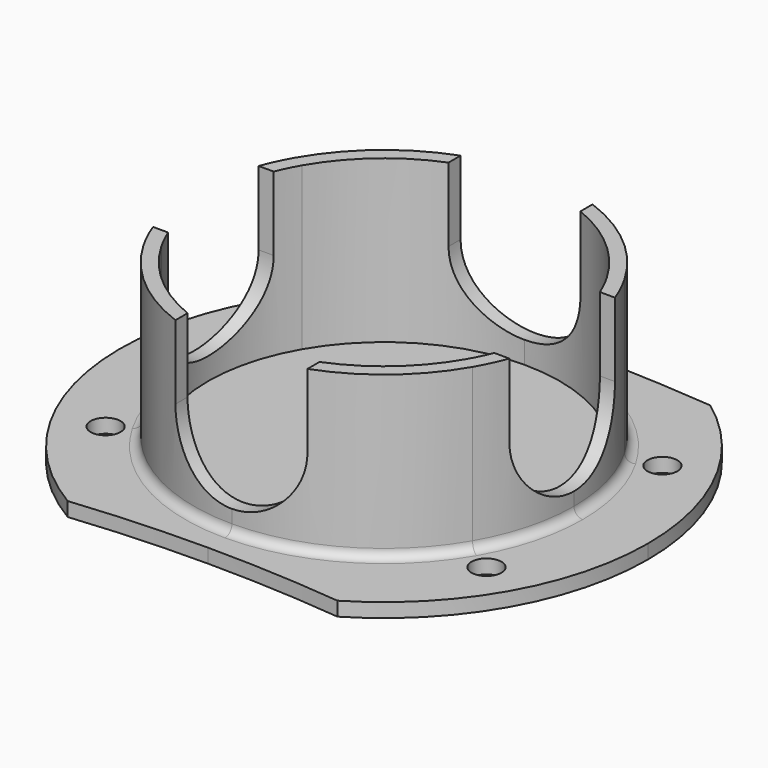
from build123d import *

# Parameters (mm, degrees)
F1_DEPTH  = 2.032
F2_DEPTH  = 25.4
F3_D      = 4.318
F3_DEPTH  = 5.08
F3_TIP    = 1.2972580765
F6_DEPTH  = 63.5
F10_DEPTH = 63.5
F11_R     = 1.27


with BuildPart() as f1:
    # F0 (on Top) → F1 (new body)
    with BuildSketch(Plane.XY):
        with BuildLine():
            ThreePointArc((-19.4727464049, 189.5021428571), (-9.7491483145, 190.2503721603), (0, 190.5))
            ThreePointArc((0, 190.5), (-15.875, 194.7536934298), (-27.4963065702, 206.375))
            ThreePointArc((-27.4963065702, 206.375), (-31.75, 222.25), (-27.4963065702, 238.125))
            ThreePointArc((-27.4963065702, 238.125), (-15.875, 249.7463065702), (0, 254))
            ThreePointArc((0, 254), (-11.2573468074, 253.750413089), (-22.4925700998, 253.0021428571))
            ThreePointArc((-22.4925700998, 253.0021428571), (-38.0569894676, 220.440151204), (-19.4727464049, 189.5021428571))
        make_face()
        with BuildLine():
            Line((0, 249.682), (0, 254))
            ThreePointArc((0, 254), (-15.875, 249.7463065702), (-27.4963065702, 238.125))
            Line((-27.4963065702, 238.125), (-23.7568088766, 235.966))
            ThreePointArc((-23.7568088766, 235.966), (-13.716, 246.0068088766), (0, 249.682))
        make_face()
        with BuildLine():
            ThreePointArc((-27.4963065702, 238.125), (-31.75, 222.25), (-27.4963065702, 206.375))
            Line((-27.4963065702, 206.375), (-23.7568088766, 208.534))
            ThreePointArc((-23.7568088766, 208.534), (-27.432, 222.25), (-23.7568088766, 235.966))
            Line((-23.7568088766, 235.966), (-27.4963065702, 238.125))
        make_face()
        with BuildLine():
            ThreePointArc((-23.7568088766, 235.966), (-27.432, 222.25), (-23.7568088766, 208.534))
            Line((-23.7568088766, 208.534), (-21.9970452561, 209.55))
            ThreePointArc((-21.9970452561, 209.55), (-25.4, 222.25), (-21.9970452561, 234.95))
            Line((-21.9970452561, 234.95), (-23.7568088766, 235.966))
        make_face()
        with BuildLine():
            ThreePointArc((-27.4963065702, 206.375), (-15.875, 194.7536934298), (0, 190.5))
            Line((0, 190.5), (0, 194.818))
            ThreePointArc((0, 194.818), (-13.716, 198.4931911234), (-23.7568088766, 208.534))
            Line((-23.7568088766, 208.534), (-27.4963065702, 206.375))
        make_face()
        with BuildLine():
            ThreePointArc((-23.7568088766, 208.534), (-13.716, 198.4931911234), (0, 194.818))
            Line((0, 194.818), (0, 196.85))
            ThreePointArc((0, 196.85), (-12.7, 200.2529547439), (-21.9970452561, 209.55))
            Line((-21.9970452561, 209.55), (-23.7568088766, 208.534))
        make_face()
        with BuildLine():
            ThreePointArc((-21.9970452561, 209.55), (-12.7, 200.2529547439), (0, 196.85))
            Line((0, 196.85), (0, 222.25))
            Line((0, 222.25), (-21.9970452561, 209.55))
        make_face()
        with BuildLine():
            Line((-21.9970452561, 209.55), (0, 222.25))
            Line((0, 222.25), (-21.9970452561, 234.95))
            ThreePointArc((-21.9970452561, 234.95), (-25.4, 222.25), (-21.9970452561, 209.55))
        make_face()
        with BuildLine():
            Line((-21.9970452561, 234.95), (0, 222.25))
            Line((0, 222.25), (0, 247.65))
            ThreePointArc((0, 247.65), (-12.7, 244.2470452561), (-21.9970452561, 234.95))
        make_face()
        with BuildLine():
            Line((0, 247.65), (0, 249.682))
            ThreePointArc((0, 249.682), (-13.716, 246.0068088766), (-23.7568088766, 235.966))
            Line((-23.7568088766, 235.966), (-21.9970452561, 234.95))
            ThreePointArc((-21.9970452561, 234.95), (-12.7, 244.2470452561), (0, 247.65))
        make_face()
        with BuildLine():
            ThreePointArc((27.4963065702, 238.125), (15.875, 249.7463065702), (0, 254))
            Line((0, 254), (0, 249.682))
            ThreePointArc((0, 249.682), (13.716, 246.0068088766), (23.7568088766, 235.966))
            Line((23.7568088766, 235.966), (27.4963065702, 238.125))
        make_face()
        with BuildLine():
            ThreePointArc((23.7568088766, 235.966), (13.716, 246.0068088766), (0, 249.682))
            Line((0, 249.682), (0, 247.65))
            ThreePointArc((0, 247.65), (12.7, 244.2470452561), (21.9970452561, 234.95))
            Line((21.9970452561, 234.95), (23.7568088766, 235.966))
        make_face()
        with BuildLine():
            Line((0, 247.65), (0, 222.25))
            Line((0, 222.25), (21.9970452561, 234.95))
            ThreePointArc((21.9970452561, 234.95), (12.7, 244.2470452561), (0, 247.65))
        make_face()
        with BuildLine():
            ThreePointArc((0, 190.5), (9.7491483145, 190.2503721603), (19.4727464049, 189.5021428571))
            ThreePointArc((19.4727464049, 189.5021428571), (33.1173794104, 203.4125590648), (38.1, 222.25))
            ThreePointArc((38.1, 222.25), (33.9748209767, 239.493014226), (22.4925700998, 253.0021428571))
            ThreePointArc((22.4925700998, 253.0021428571), (11.2573468074, 253.750413089), (0, 254))
            ThreePointArc((0, 254), (15.875, 249.7463065702), (27.4963065702, 238.125))
            ThreePointArc((27.4963065702, 238.125), (30.6681449847, 230.467504682), (31.75, 222.25))
            ThreePointArc((31.75, 222.25), (30.6681449847, 214.032495318), (27.4963065702, 206.375))
            ThreePointArc((27.4963065702, 206.375), (15.875, 194.7536934298), (0, 190.5))
        make_face()
        with BuildLine():
            Line((23.7568088766, 208.534), (27.4963065702, 206.375))
            ThreePointArc((27.4963065702, 206.375), (30.6681449847, 214.032495318), (31.75, 222.25))
            ThreePointArc((31.75, 222.25), (30.6681449847, 230.467504682), (27.4963065702, 238.125))
            Line((27.4963065702, 238.125), (23.7568088766, 235.966))
            ThreePointArc((23.7568088766, 235.966), (26.4972772668, 229.3499240453), (27.432, 222.25))
            ThreePointArc((27.432, 222.25), (26.4972772668, 215.1500759547), (23.7568088766, 208.534))
        make_face()
        with BuildLine():
            Line((21.9970452561, 209.55), (23.7568088766, 208.534))
            ThreePointArc((23.7568088766, 208.534), (26.4972772668, 215.1500759547), (27.432, 222.25))
            ThreePointArc((27.432, 222.25), (26.4972772668, 229.3499240453), (23.7568088766, 235.966))
            Line((23.7568088766, 235.966), (21.9970452561, 234.95))
            ThreePointArc((21.9970452561, 234.95), (24.5345159877, 228.8240037456), (25.4, 222.25))
            ThreePointArc((25.4, 222.25), (24.5345159877, 215.6759962544), (21.9970452561, 209.55))
        make_face()
        with BuildLine():
            Line((21.9970452561, 234.95), (0, 222.25))
            Line((0, 222.25), (21.9970452561, 209.55))
            ThreePointArc((21.9970452561, 209.55), (24.5345159877, 215.6759962544), (25.4, 222.25))
            ThreePointArc((25.4, 222.25), (24.5345159877, 228.8240037456), (21.9970452561, 234.95))
        make_face()
        with BuildLine():
            Line((0, 222.25), (0, 196.85))
            ThreePointArc((0, 196.85), (12.7, 200.2529547439), (21.9970452561, 209.55))
            Line((21.9970452561, 209.55), (0, 222.25))
        make_face()
        with BuildLine():
            Line((0, 196.85), (0, 194.818))
            ThreePointArc((0, 194.818), (13.716, 198.4931911234), (23.7568088766, 208.534))
            Line((23.7568088766, 208.534), (21.9970452561, 209.55))
            ThreePointArc((21.9970452561, 209.55), (12.7, 200.2529547439), (0, 196.85))
        make_face()
        with BuildLine():
            Line((0, 194.818), (0, 190.5))
            ThreePointArc((0, 190.5), (15.875, 194.7536934298), (27.4963065702, 206.375))
            Line((27.4963065702, 206.375), (23.7568088766, 208.534))
            ThreePointArc((23.7568088766, 208.534), (13.716, 198.4931911234), (0, 194.818))
        make_face()
    extrude(amount=F1_DEPTH)

    # F0 (on Top) → F2 (join)
    with BuildSketch(Plane.XY):
        with BuildLine():
            ThreePointArc((-23.7568088766, 208.534), (-13.716, 198.4931911234), (0, 194.818))
            Line((0, 194.818), (0, 196.85))
            ThreePointArc((0, 196.85), (-12.7, 200.2529547439), (-21.9970452561, 209.55))
            Line((-21.9970452561, 209.55), (-23.7568088766, 208.534))
        make_face()
        with BuildLine():
            ThreePointArc((-23.7568088766, 235.966), (-27.432, 222.25), (-23.7568088766, 208.534))
            Line((-23.7568088766, 208.534), (-21.9970452561, 209.55))
            ThreePointArc((-21.9970452561, 209.55), (-25.4, 222.25), (-21.9970452561, 234.95))
            Line((-21.9970452561, 234.95), (-23.7568088766, 235.966))
        make_face()
        with BuildLine():
            Line((0, 247.65), (0, 249.682))
            ThreePointArc((0, 249.682), (-13.716, 246.0068088766), (-23.7568088766, 235.966))
            Line((-23.7568088766, 235.966), (-21.9970452561, 234.95))
            ThreePointArc((-21.9970452561, 234.95), (-12.7, 244.2470452561), (0, 247.65))
        make_face()
        with BuildLine():
            ThreePointArc((23.7568088766, 235.966), (13.716, 246.0068088766), (0, 249.682))
            Line((0, 249.682), (0, 247.65))
            ThreePointArc((0, 247.65), (12.7, 244.2470452561), (21.9970452561, 234.95))
            Line((21.9970452561, 234.95), (23.7568088766, 235.966))
        make_face()
        with BuildLine():
            Line((21.9970452561, 209.55), (23.7568088766, 208.534))
            ThreePointArc((23.7568088766, 208.534), (26.4972772668, 215.1500759547), (27.432, 222.25))
            ThreePointArc((27.432, 222.25), (26.4972772668, 229.3499240453), (23.7568088766, 235.966))
            Line((23.7568088766, 235.966), (21.9970452561, 234.95))
            ThreePointArc((21.9970452561, 234.95), (24.5345159877, 228.8240037456), (25.4, 222.25))
            ThreePointArc((25.4, 222.25), (24.5345159877, 215.6759962544), (21.9970452561, 209.55))
        make_face()
        with BuildLine():
            Line((0, 196.85), (0, 194.818))
            ThreePointArc((0, 194.818), (13.716, 198.4931911234), (23.7568088766, 208.534))
            Line((23.7568088766, 208.534), (21.9970452561, 209.55))
            ThreePointArc((21.9970452561, 209.55), (12.7, 200.2529547439), (0, 196.85))
        make_face()
    extrude(amount=F2_DEPTH)

    # F3
    with Locations(Plane(origin=(0, 0, 0), x_dir=(1, 0, 0), z_dir=(0, 0, -1))):
        with Locations((-27.4963065702, -206.375), (-27.4963065702, -238.125), (27.4963065702, -238.125), (27.4963065702, -206.375)):
            Hole(F3_D / 2, depth=F3_DEPTH)
            with Locations((0, 0, -(F3_DEPTH + F3_TIP / 2))):  # 118° drill point
                Cone(0, F3_D / 2, F3_TIP, mode=Mode.SUBTRACT)

    # F5 (on line) → F6 (cut, symmetric)
    with BuildSketch(Plane.YZ):
        with BuildLine():
            Line((212.725, 28.6151301116), (212.725, 14.732))
            ThreePointArc((212.725, 14.732), (215.5148079092, 7.9968079092), (222.25, 5.207))
            ThreePointArc((222.25, 5.207), (228.9851920908, 7.9968079092), (231.775, 14.732))
            Line((231.775, 14.732), (231.775, 28.6151301116))
            Line((231.775, 28.6151301116), (212.725, 28.6151301116))
        make_face()
    extrude(amount=F6_DEPTH, both=True, mode=Mode.SUBTRACT)

    # F9 (on line) → F10 (cut, symmetric)
    with BuildSketch(Plane.XZ.offset(-222.25)):
        with BuildLine():
            Line((-9.525, 30.1762204617), (-9.525, 14.732))
            ThreePointArc((-9.525, 14.732), (-6.7351920908, 7.9968079092), (0, 5.207))
            ThreePointArc((0, 5.207), (6.7351920908, 7.9968079092), (9.525, 14.732))
            Line((9.525, 14.732), (9.525, 30.1762204617))
            Line((9.525, 30.1762204617), (-9.525, 30.1762204617))
        make_face()
    extrude(amount=F10_DEPTH, both=True, mode=Mode.SUBTRACT)

    # F11
    f11_edges = [f1.edges().sort_by_distance(p)[0] for p in [
        (0, 249.682, 2.032),
    ]]
    fillet(f11_edges, radius=F11_R)


solid = f1.part
